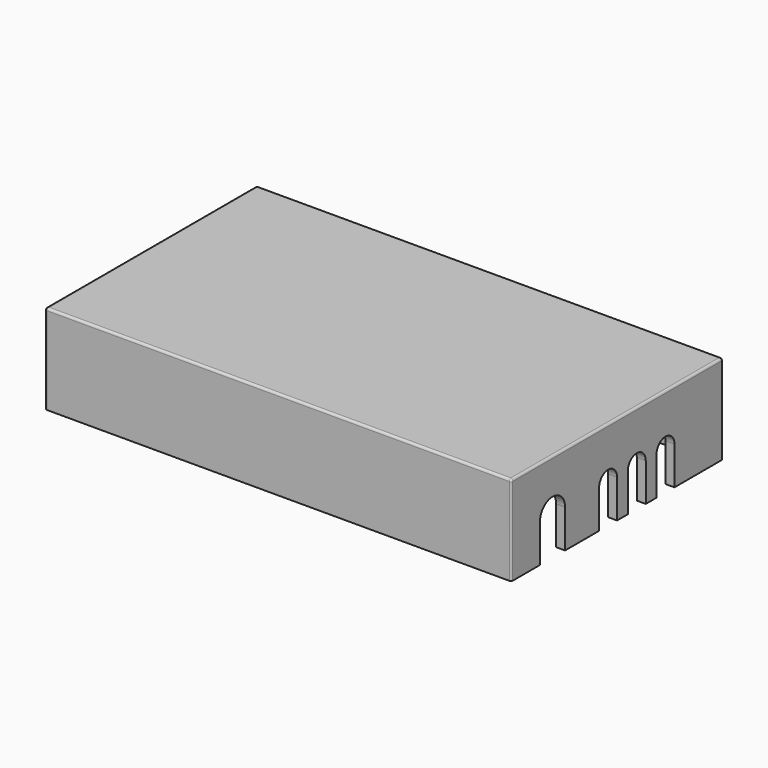
from build123d import *

# Parameters (mm, degrees)
SKETCH_W        = 104
SKETCH_H        = 59
PAD_DEPTH       = 20
SKETCH002_W     = 100
SKETCH002_H     = 55
POCKET_DEPTH    = 18
SKETCH003_W     = 5
SKETCH003_H     = 2
PAD001_DEPTH    = 1
SKETCH004_W     = 5
SKETCH004_H     = 2
PAD002_DEPTH    = 1
POCKET001_DEPTH = 2
FILLET_R        = 0.5
FILLET001_R     = 0.4
FILLET002_R     = 0.5
FILLET003_R     = 0.5


with BuildPart() as part:
    # Sketch → Pad (new body)
    with BuildSketch(Plane.XY):
        with Locations((-7, 0)):
            Rectangle(SKETCH_W, SKETCH_H)
    extrude(amount=PAD_DEPTH)

    # Sketch002 (on Face5 of Pad) → Pocket (cut)
    with BuildSketch(Plane(origin=(0, 0, 0), x_dir=(1, 0, 0), z_dir=(0, 0, -1))):
        with Locations((-7, 0)):
            Rectangle(SKETCH002_W, SKETCH002_H)
    extrude(amount=-POCKET_DEPTH, mode=Mode.SUBTRACT)

    # Sketch003 (on Face8 of Pocket) → Pad001 (join)
    with BuildSketch(Plane.XZ.offset(-27.5)):
        with Locations((-18.5, 3)):
            Rectangle(SKETCH003_W, SKETCH003_H)
        with Locations((18.5, 3)):
            Rectangle(SKETCH003_W, SKETCH003_H)
    extrude(amount=PAD001_DEPTH)

    # Sketch004 (on Face10 of Pad001) → Pad002 (join)
    with BuildSketch(Plane(origin=(0, -27.5, 0), x_dir=(-1, 0, 0), z_dir=(0, 1, 0))):
        with Locations((-18.5, 3)):
            Rectangle(SKETCH004_W, SKETCH004_H)
        with Locations((18.5, 3)):
            Rectangle(SKETCH004_W, SKETCH004_H)
    extrude(amount=PAD002_DEPTH)

    # Sketch005 (on Face3 of Pad002) → Pocket001 (cut)
    with BuildSketch(Plane.YZ.offset(45)):
        with BuildLine():
            ThreePointArc((-21.5, 0), (-18, -3.5), (-14.5, 0))
            Line((-14.5, 0), (-14.5, 8.5))
            ThreePointArc((-14.5, 8.5), (-18, 12), (-21.5, 8.5))
            Line((-21.5, 0), (-21.5, 8.5))
        make_face()
        with BuildLine():
            ThreePointArc((-5, 0), (-2.5, -2.5), (0, 0))
            Line((0, 0), (0, 8.5))
            ThreePointArc((0, 8.5), (-2.5, 11), (-5, 8.5))
            Line((-5, 0), (-5, 8.5))
        make_face()
        with BuildLine():
            ThreePointArc((3, 0), (5.5, -2.5), (8, 0))
            Line((8, 0), (8, 8.5))
            ThreePointArc((8, 8.5), (5.5, 11), (3, 8.5))
            Line((3, 0), (3, 8.5))
        make_face()
        with BuildLine():
            ThreePointArc((11, 0), (13.5, -2.5), (16, 0))
            Line((16, 0), (16, 8.5))
            ThreePointArc((16, 8.5), (13.5, 11), (11, 8.5))
            Line((11, 0), (11, 8.5))
        make_face()
    extrude(amount=-POCKET001_DEPTH, mode=Mode.SUBTRACT)

    # Fillet
    fillet_edges = [part.edges().sort_by_distance(p)[0] for p in [
        (-7, 29.5, 20),
        (-59, 0, 20),
        (-7, -29.5, 20),
        (45, 0, 20),
    ]]
    fillet(fillet_edges, radius=FILLET_R)

    # Fillet001
    fillet001_edges = [part.edges().sort_by_distance(p)[0] for p in [
        (45, 29.5, 9.75),
        (45, -29.5, 9.75),
        (-59, 29.5, 9.75),
        (-59, -29.5, 9.75),
    ]]
    fillet(fillet001_edges, radius=FILLET001_R)

    # Fillet002
    fillet002_edges = [part.edges().sort_by_distance(p)[0] for p in [
        (-18.5, -26.5, 2),
        (-21, -26.5, 3),
        (-18.5, -26.5, 4),
        (-16, -26.5, 3),
        (16, -26.5, 3),
        (18.5, -26.5, 2),
        (21, -26.5, 3),
        (18.5, -26.5, 4),
    ]]
    fillet(fillet002_edges, radius=FILLET002_R)

    # Fillet003
    fillet003_edges = [part.edges().sort_by_distance(p)[0] for p in [
        (-21, 26.5, 3),
        (-18.5, 26.5, 4),
        (-18.5, 26.5, 2),
        (-16, 26.5, 3),
        (18.5, 26.5, 2),
        (16, 26.5, 3),
        (18.5, 26.5, 4),
        (21, 26.5, 3),
    ]]
    fillet(fillet003_edges, radius=FILLET003_R)


solid = part.part
